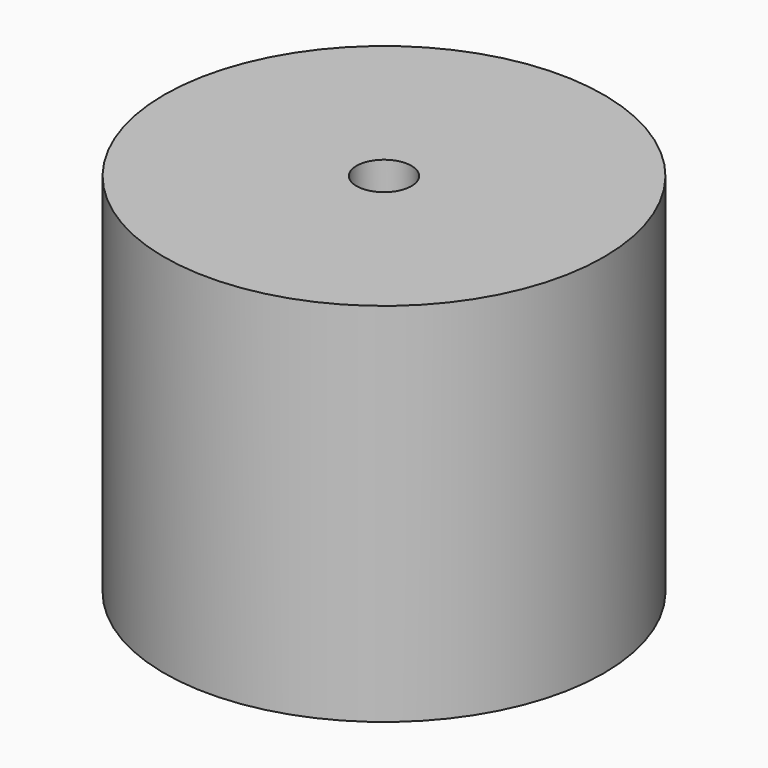
from build123d import *

# Parameters (mm, degrees)
F0_R     = 6
F0_R_2   = 4.25
F1_DEPTH = 10
F2_DEPTH = 8
F3_D     = 1.5


with BuildPart() as f1:
    # F0 (on Top) → F1 (new body)
    with BuildSketch(Plane.XY):
        with Locations((0, -0.5465864819)):
            Circle(F0_R)
        with Locations((0, -0.5465864819)):
            Circle(F0_R_2, mode=Mode.SUBTRACT)
        with Locations((0, -0.5465864819)):
            Circle(F0_R_2)
    extrude(amount=F1_DEPTH)

    # F0 (on Top) → F2 (cut)
    with BuildSketch(Plane.XY):
        with Locations((0, -0.5465864819)):
            Circle(F0_R_2)
    extrude(amount=F2_DEPTH, mode=Mode.SUBTRACT)

    # F3 (through all)
    with Locations(Plane(origin=(0, 0, 0), x_dir=(1, 0, 0), z_dir=(0, 0, -1))):
        with Locations((0, 0.5465864819)):
            Hole(F3_D / 2)


solid = f1.part
